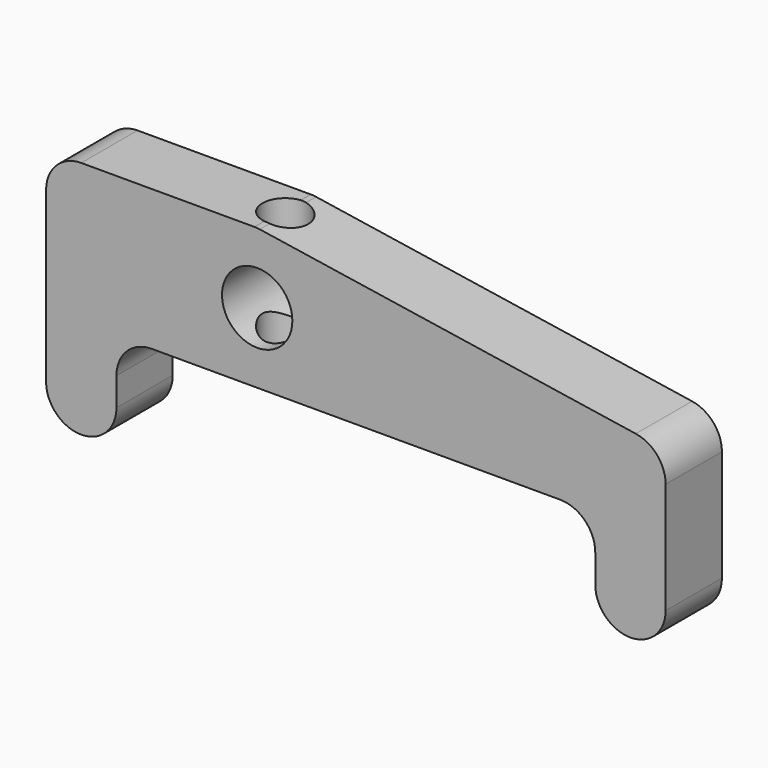
from build123d import *

# Parameters (mm, degrees)
F0_R     = 5
F1_DEPTH = 10
F2_R     = 3.25
F3_DEPTH = 20.001


with BuildPart() as f1:
    # F0 (on Front) → F1 (new body)
    with BuildSketch(Plane.XZ):
        with BuildLine():
            ThreePointArc((-68.682837, 9.210357), (-65.147303, 10.674823), (-63.682837, 14.210357))
            Line((-63.682837, 14.210357), (-63.682837, 18.210842))
            ThreePointArc((-63.682837, 18.210842), (-62.218371, 21.746376), (-58.682837, 23.210842))
            Line((-58.682837, 23.210842), (-0.632853, 23.210842))
            ThreePointArc((-0.632853, 23.210842), (2.902681, 21.746376), (4.367147, 18.210842))
            Line((4.367147, 18.210842), (4.367147, 14.210357))
            ThreePointArc((4.367147, 14.210357), (5.831613, 10.674823), (9.367147, 9.210357))
            ThreePointArc((9.367147, 9.210357), (12.902681, 10.674823), (14.367147, 14.210357))
            Line((14.367147, 14.210357), (14.367147, 30.015659))
            ThreePointArc((14.367147, 30.015659), (13.16123, 33.27218), (10.125174, 34.957864))
            Line((10.125174, 34.957864), (-43.306027, 43.153047))
            ThreePointArc((-43.306027, 43.153047), (-43.68394, 43.196372), (-44.064054, 43.210842))
            Line((-44.064054, 43.210842), (-68.682837, 43.210842))
            ThreePointArc((-68.682837, 43.210842), (-72.218371, 41.746376), (-73.682837, 38.210842))
            Line((-73.682837, 38.210842), (-73.682837, 14.210357))
            ThreePointArc((-73.682837, 14.210357), (-72.218371, 10.674823), (-68.682837, 9.210357))
        make_face()
        with Locations((-43.682837, 33.210842)):
            Circle(F0_R, mode=Mode.SUBTRACT)
    extrude(amount=F1_DEPTH)

    # F2 (on face) → F3 (cut, through all)
    with BuildSketch(Plane(origin=(0, 0, 23.210842), x_dir=(1, 0, 0), z_dir=(0, 0, -1))):
        with Locations((-43.682837, 5)):
            Circle(F2_R)
    extrude(amount=-F3_DEPTH, mode=Mode.SUBTRACT)


solid = f1.part
